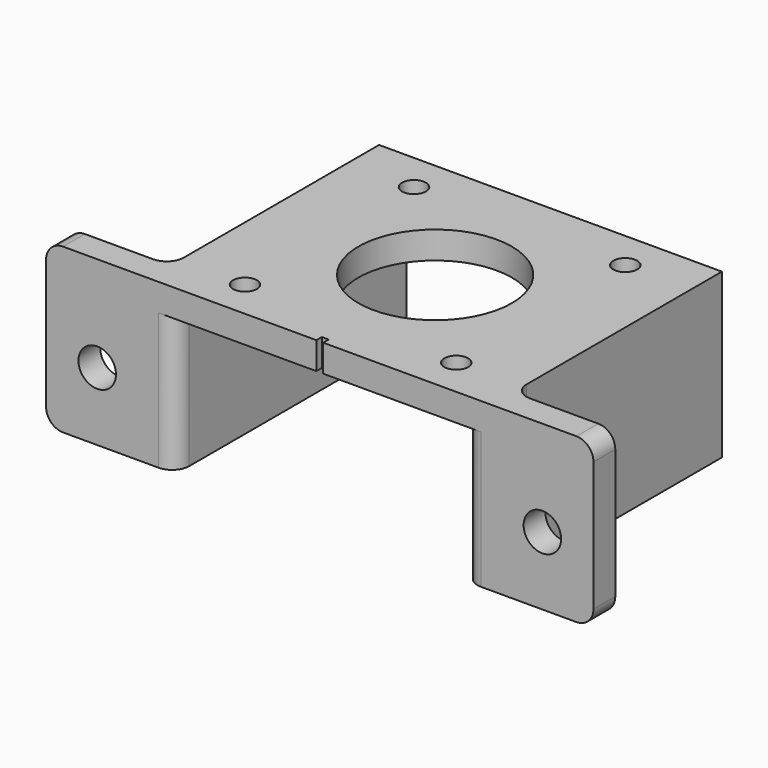
from build123d import *

# Parameters (mm, degrees)
F0_W     = 4
F0_H     = 38.3
F0_R     = 1.75
F0_R_2   = 11.25
F1_DEPTH = 4
F3_DEPTH = 20
F4_R     = 2.75
F5_DEPTH = 4
F6_R     = 2.5
F7_W     = 0.5
F7_H     = 4
F8_DEPTH = 1


with BuildPart() as f1:
    # F0 (on Top) → F1 (new body)
    with BuildSketch(Plane.XY):
        with Locations((-23.15, 2)):
            Rectangle(F0_W, F0_H)
        Polygon((21.15, 21.15), (-21.15, 21.15), (-21.15, -17.15), (-21.15, -21.15), (21.15, -21.15), (21.15, -17.15), align=None)
        with Locations((-15.495, -15.495)):
            Circle(F0_R, mode=Mode.SUBTRACT)
        with Locations((15.495, -15.495)):
            Circle(F0_R, mode=Mode.SUBTRACT)
        with Locations((-15.495, 15.495)):
            Circle(F0_R, mode=Mode.SUBTRACT)
        Circle(F0_R_2, mode=Mode.SUBTRACT)
        with Locations((15.495, 15.495)):
            Circle(F0_R, mode=Mode.SUBTRACT)
        with Locations((23.15, 2)):
            Rectangle(F0_W, F0_H)
        Polygon((-21.15, -21.15), (-21.15, -17.15), (-25.15, -17.15), (-40.15, -17.15), (-40.15, -21.15), align=None)
        Polygon((25.15, -17.15), (21.15, -17.15), (21.15, -21.15), (40.15, -21.15), (40.15, -17.15), align=None)
    extrude(amount=F1_DEPTH)

    # F2 (on face) → F3 (join)
    with BuildSketch(Plane(origin=(0, 0, 0), x_dir=(1, 0, 0), z_dir=(0, 0, -1))):
        Polygon((-25.15, -21.15), (-21.15, -21.15), (-21.15, 17.15), (-21.15, 21.15), (-40.15, 21.15), (-40.15, 17.15), (-25.15, 17.15), align=None)
        Polygon((21.15, 17.15), (21.15, -21.15), (25.15, -21.15), (25.15, 17.15), (40.15, 17.15), (40.15, 21.15), (21.15, 21.15), align=None)
    extrude(amount=F3_DEPTH)

    # F4 (on face) → F5 (cut, through all)
    with BuildSketch(Plane.XZ.offset(21.15)):
        with Locations((-32.65, -10)):
            Circle(F4_R)
        with Locations((32.65, -10)):
            Circle(F4_R)
    extrude(amount=-F5_DEPTH, mode=Mode.SUBTRACT)

    # F6
    f6_edges = [f1.edges().sort_by_distance(p)[0] for p in [
        (-40.15, -19.15, 4),
        (-40.15, -19.15, -20),
        (40.15, -19.15, -20),
        (40.15, -19.15, 4),
        (25.15, -17.15, -8),
        (-25.15, -17.15, -8),
        (21.15, -21.15, -10),
        (-21.15, -21.15, -10),
    ]]
    fillet(f6_edges, radius=F6_R)

    # F7 (on face) → F8 (cut)
    with BuildSketch(Plane.XZ.offset(21.15)):
        with Locations((0.25, 2)):
            Rectangle(F7_W, F7_H)
        with Locations((-0.25, 2)):
            Rectangle(F7_W, F7_H)
    extrude(amount=-F8_DEPTH, mode=Mode.SUBTRACT)


solid = f1.part
